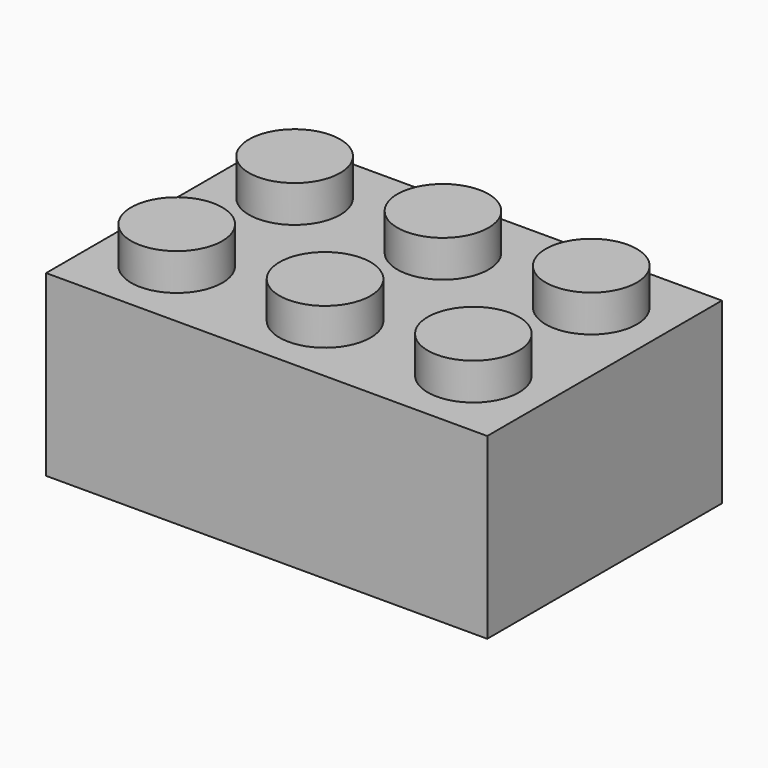
from build123d import *

# Parameters (mm, degrees)
F0_W      = 23.7236
F0_H      = 15.7734
F2_DEPTH  = 9.6012
F1_R      = 2.4511
F3_DEPTH  = 1.9812
F4_W      = 21.2344
F4_H      = 13.2842
F6_DEPTH  = 7.62
F5_R      = 3.2258
F7_DEPTH  = 8.89
F8_R      = 2.467308
F9_R      = 2.45607
F10_DEPTH = 7.62


with BuildPart() as f2:
    # F0 (on Top) → F2 (new body)
    with BuildSketch(Plane.XY):
        Rectangle(F0_W, F0_H)
    extrude(amount=-F2_DEPTH)

    # F1 (on face) → F3 (join)
    with BuildSketch(Plane.XY):
        with Locations((-7.9756, 3.9624)):
            Circle(F1_R)
        with Locations((0, 3.9624)):
            Circle(F1_R)
        with Locations((7.9756, 3.9624)):
            Circle(F1_R)
        with Locations((7.9756, -3.9624)):
            Circle(F1_R)
        with Locations((0, -3.9624)):
            Circle(F1_R)
        with Locations((-7.9756, -3.9624)):
            Circle(F1_R)
    extrude(amount=F3_DEPTH)

    # F4 (on face) → F6 (cut)
    with BuildSketch(Plane(origin=(0, 0, -9.6012), x_dir=(1, 0, 0), z_dir=(0, 0, -1))):
        Rectangle(F4_W, F4_H)
    extrude(amount=-F6_DEPTH, mode=Mode.SUBTRACT)

    # F5 (on face) → F7 (join)
    with BuildSketch(Plane(origin=(0, 0, -9.6012), x_dir=(1, 0, 0), z_dir=(0, 0, -1))):
        with Locations((-3.556, 0)):
            Circle(F5_R)
        with Locations((3.556, 0)):
            Circle(F5_R)
    extrude(amount=-F7_DEPTH)

    # F8 (on face) + F9 (on face) → F10 (cut)
    with BuildSketch(Plane(origin=(0, 0, -9.6012), x_dir=(1, 0, 0), z_dir=(0, 0, -1))):
        with Locations((-3.556, 0)):
            Circle(F8_R)
    with BuildSketch(Plane(origin=(0, 0, -9.6012), x_dir=(1, 0, 0), z_dir=(0, 0, -1))):
        with Locations((3.556, 0)):
            Circle(F9_R)
    extrude(amount=-F10_DEPTH, mode=Mode.SUBTRACT)


solid = f2.part
